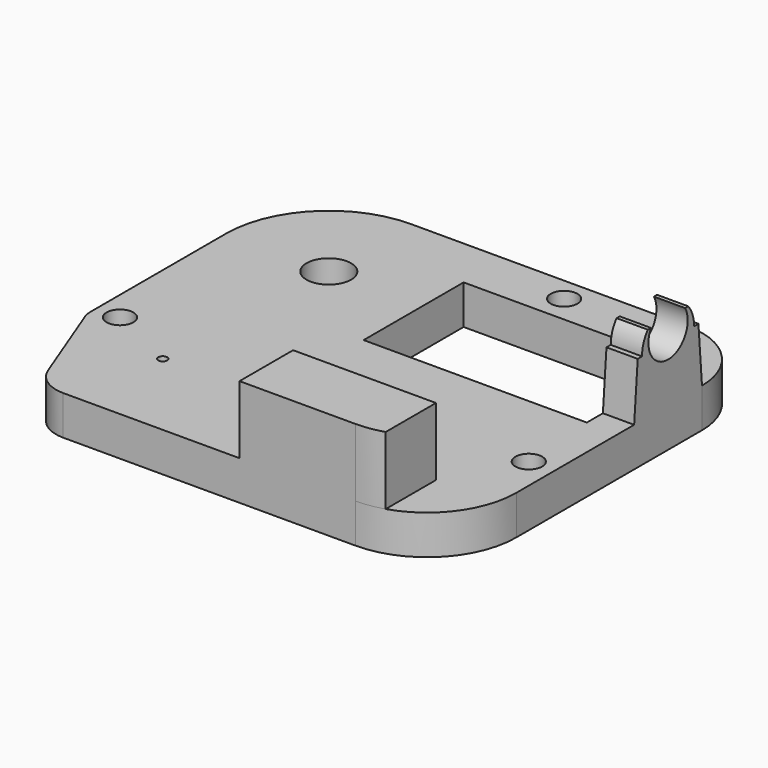
from build123d import *

# Parameters (mm, degrees)
F0_R     = 0.5
F0_R_2   = 1.5
F0_R_3   = 2.5
F0_W     = 25
F0_H     = 14
F1_DEPTH = 4.4
F2_W     = 3.5
F2_H     = 9.5
F3_DEPTH = 8.6
F5_DEPTH = 3.5
F7_DEPTH = 7.6


with BuildPart() as f1:
    # F0 (on Top) → F1 (new body)
    with BuildSketch(Plane.XY):
        with BuildLine():
            Line((42.5, 44), (11.5, 44))
            ThreePointArc((11.5, 44), (3.368272, 40.631728), (0, 32.5))
            Line((0, 32.5), (0, 13.464194))
            ThreePointArc((0, 13.464194), (0.042012, 13.007801), (0.166636, 12.566746))
            Line((0.166636, 12.566746), (4.013814, 2.564084))
            ThreePointArc((4.013814, 2.564084), (5.482651, 0.702754), (7.747196, 0))
            Line((7.747196, 0), (40.5, 0))
            ThreePointArc((40.5, 0), (47.571068, 2.928932), (50.5, 10))
            Line((50.5, 10), (50.5, 36))
            ThreePointArc((50.5, 36), (48.156854, 41.656854), (42.5, 44))
        make_face()
        with Locations((10.5, 10.5)):
            Circle(F0_R, mode=Mode.SUBTRACT)
        with Locations((2.671147, 14.3)):
            Circle(F0_R_2, mode=Mode.SUBTRACT)
        with Locations((47.660035, 15.3)):
            Circle(F0_R_2, mode=Mode.SUBTRACT)
        with Locations((11.5, 32.5)):
            Circle(F0_R_3, mode=Mode.SUBTRACT)
        with Locations((34.5, 31.25)):
            Rectangle(F0_W, F0_H, mode=Mode.SUBTRACT)
        with Locations((30.8, 41.314212)):
            Circle(F0_R_2, mode=Mode.SUBTRACT)
    extrude(amount=F1_DEPTH)

    # F2 (on face) → F3 (join)
    with BuildSketch(Plane.XY.offset(4.4)):
        with Locations((48.75, 31.25)):
            Rectangle(F2_W, F2_H)
    extrude(amount=F3_DEPTH)

    # F4 (on face) → F5 (cut, through all)
    with BuildSketch(Plane.YZ.offset(50.5)):
        with BuildLine():
            Line((33.64583, 13), (28.85417, 13))
            ThreePointArc((28.85417, 13), (31.25, 8.9), (33.64583, 13))
        make_face()
        with BuildLine():
            Line((26.5, 13), (26.5, 4.4))
            Line((26.5, 4.4), (27, 10.7))
            Line((27, 10.7), (27.6, 10.7))
            ThreePointArc((27.6, 10.7), (27.809999, 11.920203), (28.415833, 13))
            Line((28.415833, 13), (26.5, 13))
        make_face()
        with BuildLine():
            ThreePointArc((34.084167, 13), (34.690001, 11.920203), (34.9, 10.7))
            Line((34.9, 10.7), (35.5, 10.7))
            Line((35.5, 10.7), (36, 4.4))
            Line((36, 4.4), (36, 13))
            Line((36, 13), (34.084167, 13))
        make_face()
    extrude(amount=-F5_DEPTH, mode=Mode.SUBTRACT)

    # F6 (on face) → F7 (join)
    with BuildSketch(Plane.XY.offset(4.4)):
        with BuildLine():
            Line((27.5, 7.5), (27.5, 0))
            Line((27.5, 0), (40.5, 0))
            ThreePointArc((40.5, 0), (42.017577, 0.115823), (43.5, 0.460608))
            Line((43.5, 0.460608), (43.5, 7.5))
            Line((43.5, 7.5), (27.5, 7.5))
        make_face()
    extrude(amount=F7_DEPTH)


solid = f1.part
